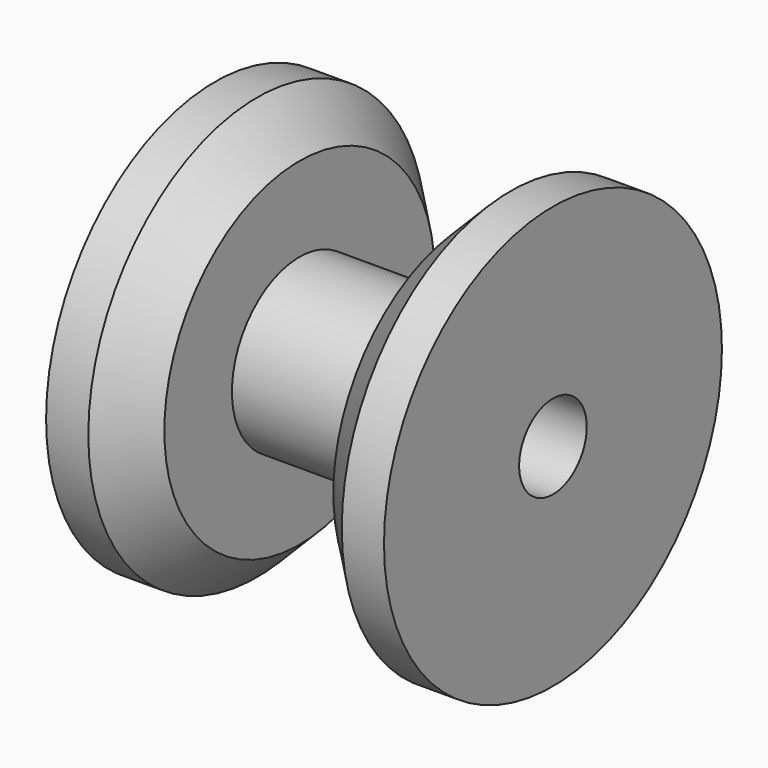
from build123d import *

# Parameters (mm, degrees)
F2_SIZE = 1


with BuildPart() as f1:
    # F0 (on Top) → F1 (revolve)
    with BuildSketch(Plane.XY):
        Polygon((-2.828456, 5), (-2.828456, 1), (5.171544, 1), (5.171544, 5), (3.171544, 5), (3.171544, 2), (-0.828456, 2), (-0.828456, 5), align=None)
    revolve(axis=Axis((1.171544, 0, 0), (-1, 0, 0)))

    # F2
    f2_edges = [f1.edges().sort_by_distance(p)[0] for p in [
        (-0.828456, -5, 0),
        (3.171544, -5, 0),
    ]]
    chamfer(f2_edges, length=F2_SIZE)


solid = f1.part
